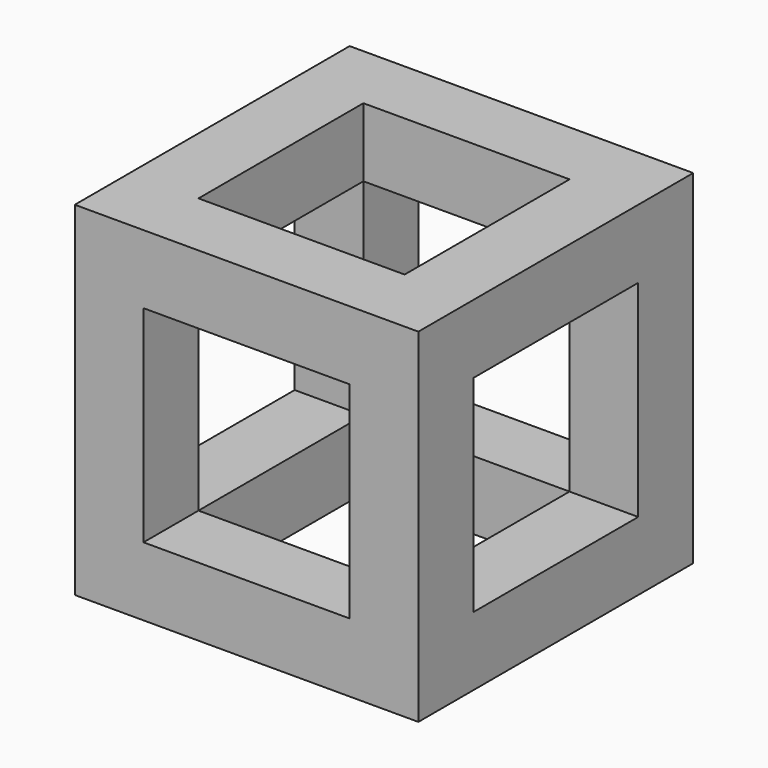
from build123d import *

# Parameters (mm, degrees)
F0_W     = 20
F0_H     = 20
F1_DEPTH = 20
F2_W     = 12
F2_H     = 12
F3_DEPTH = 90
F4_W     = 12
F4_H     = 12
F5_DEPTH = 60.3
F6_W     = 12
F6_H     = 12
F7_DEPTH = 36


with BuildPart() as f1:
    # F0 (on Top) → F1 (new body)
    with BuildSketch(Plane.XY):
        with Locations((-41.299911, -23.300817)):
            Rectangle(F0_W, F0_H)
    extrude(amount=F1_DEPTH)

    # F2 (on Right) → F3 (cut)
    with BuildSketch(Plane.YZ):
        with Locations((-23.300817, 10)):
            Rectangle(F2_W, F2_H)
    extrude(amount=-F3_DEPTH, mode=Mode.SUBTRACT)

    # F4 (on Front) → F5 (cut)
    with BuildSketch(Plane.XZ):
        with Locations((-41.299911, 10)):
            Rectangle(F4_W, F4_H)
    extrude(amount=F5_DEPTH, mode=Mode.SUBTRACT)

    # F6 (on Top) → F7 (cut)
    with BuildSketch(Plane.XY):
        with Locations((-41.299911, -23.300817)):
            Rectangle(F6_W, F6_H)
    extrude(amount=F7_DEPTH, mode=Mode.SUBTRACT)


solid = f1.part
